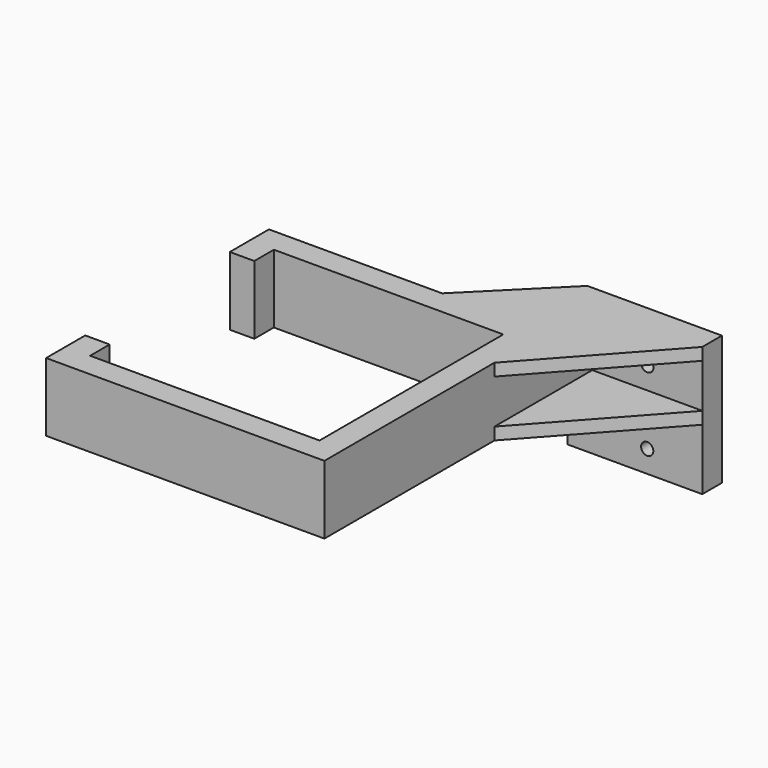
from build123d import *

# Parameters (mm, degrees)
F1_DEPTH  = 28
F2_W      = 45
F2_H      = 5
F3_DEPTH  = 50
F5_DEPTH  = 28.001
F7_DEPTH  = 28
F8_W      = 37.4603138711
F8_H      = 12
F9_DEPTH  = 32.99
F10_W     = 55
F10_H     = 10.051137104
F11_DEPTH = 25
F12_R     = 2.5
F13_DEPTH = 10.052137104
F14_R     = 1.3
F15_DEPTH = 25


with BuildPart() as f1:
    # F0 (on Top) → F1 (new body)
    with BuildSketch(Plane.XY):
        Polygon((93.79, 0), (0, 0), (0, 10), (-10, 10), (-10, -10), (103.79, -10), (103.79, 126.89), (148.79, 126.89), (148.79, 136.89), (93.79, 136.89), (93.79, 103.9), (-10, 103.9), (-10, 83.9), (0, 83.9), (0, 93.9), (93.79, 93.9), align=None)
    extrude(amount=-F1_DEPTH)

    # F2 (on face) → F3 (join)
    with BuildSketch(Plane.XZ.offset(-126.89)):
        with Locations((126.29, -2.5)):
            Rectangle(F2_W, F2_H)
        with Locations((126.29, -25.5)):
            Rectangle(F2_W, F2_H)
    extrude(amount=F3_DEPTH)

    # F4 (on face) → F5 (cut, through all)
    with BuildSketch(Plane(origin=(0, 0, -28), x_dir=(1, 0, 0), z_dir=(0, 0, -1))):
        Polygon((105.9448644519, -76.89), (103.79, -76.89), (148.79, -126.838862896), (148.79, -76.89), align=None)
    extrude(amount=-F5_DEPTH, mode=Mode.SUBTRACT)

    # F6 (on face) → F7 (join)
    with BuildSketch(Plane.XY):
        Polygon((93.79, 103.9), (93.79, 136.89), (60.8, 103.9), align=None)
    extrude(amount=-F7_DEPTH)

    # F8 (on face) → F9 (cut)
    with BuildSketch(Plane(origin=(0, 136.89, 0), x_dir=(-1, 0, 0), z_dir=(0, 1, 0))):
        with Locations((-75.0598430644, -14)):
            Rectangle(F8_W, F8_H)
    extrude(amount=-F9_DEPTH, mode=Mode.SUBTRACT)

    # F10 (on face) → F11 (join)
    with BuildSketch(Plane(origin=(0, 0, -28), x_dir=(1, 0, 0), z_dir=(0, 0, -1))):
        with Locations((121.29, -131.864431448)):
            Rectangle(F10_W, F10_H)
    extrude(amount=F11_DEPTH)

    # F12 (on face) → F13 (cut, through all)
    with BuildSketch(Plane.XZ.offset(-126.838862896)):
        with Locations((126.29, -14)):
            Circle(F12_R)
        with Locations((126.29, -44)):
            Circle(F12_R)
    extrude(amount=-F13_DEPTH, mode=Mode.SUBTRACT)

    # F14 (on face) → F15 (cut)
    with BuildSketch(Plane(origin=(-10, 0, 0), x_dir=(0, -1, 0), z_dir=(-1, 0, 0))):
        with Locations((-96.9, -7)):
            Circle(F14_R)
        with Locations((-96.9, -21)):
            Circle(F14_R)
        with Locations((3, -7)):
            Circle(F14_R)
        with Locations((3, -21)):
            Circle(F14_R)
    extrude(amount=-F15_DEPTH, mode=Mode.SUBTRACT)


solid = f1.part
